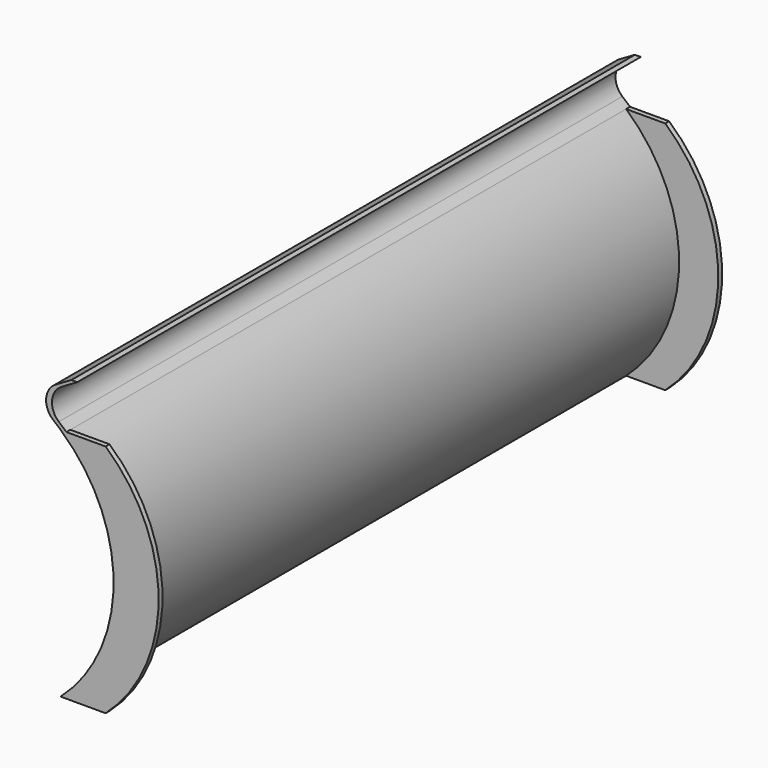
from build123d import *

# Parameters (mm, degrees)
F1_DEPTH = 457.2
F3_DEPTH = 6.35


with BuildPart() as f1:
    # F0 (on Front) → F1 (new body, symmetric)
    with BuildSketch(Plane.XZ):
        with BuildLine():
            Line((-7.632641, -152.4), (0, -152.4))
            ThreePointArc((0, -152.4), (68.795833, 0), (0, 152.4))
            Line((0, 152.4), (-9.967424, 160.932384))
            ThreePointArc((-9.967424, 160.932384), (-18.7435, 182.548823), (-6.180466, 202.207412))
            Line((-6.180466, 202.207412), (13.96697, 213.877112))
            Line((13.96697, 213.877112), (6.334329, 213.877112))
            Line((6.334329, 213.877112), (-13.813108, 202.207412))
            ThreePointArc((-13.813108, 202.207412), (-26.376141, 182.548823), (-17.600065, 160.932384))
            Line((-17.600065, 160.932384), (-7.632641, 152.4))
            ThreePointArc((-7.632641, 152.4), (61.163192, 0), (-7.632641, -152.4))
        make_face()
    extrude(amount=F1_DEPTH, both=True)

    # F2 (on face) → F3 (join)
    with BuildSketch(Plane.XZ.offset(457.2)):
        with BuildLine():
            Line((50.8, 152.4), (0, 152.4))
            ThreePointArc((0, 152.4), (68.795833, 0), (0, -152.4))
            Line((0, -152.4), (50.8, -152.4))
            ThreePointArc((50.8, -152.4), (119.595833, 0), (50.8, 152.4))
        make_face()
    extrude(amount=-F3_DEPTH)

    # F4: F1 across plane


with BuildPart() as f1_1:
    add(f1.part)
    add(f1.part.mirror(Plane.XZ))


solid = f1_1.part
